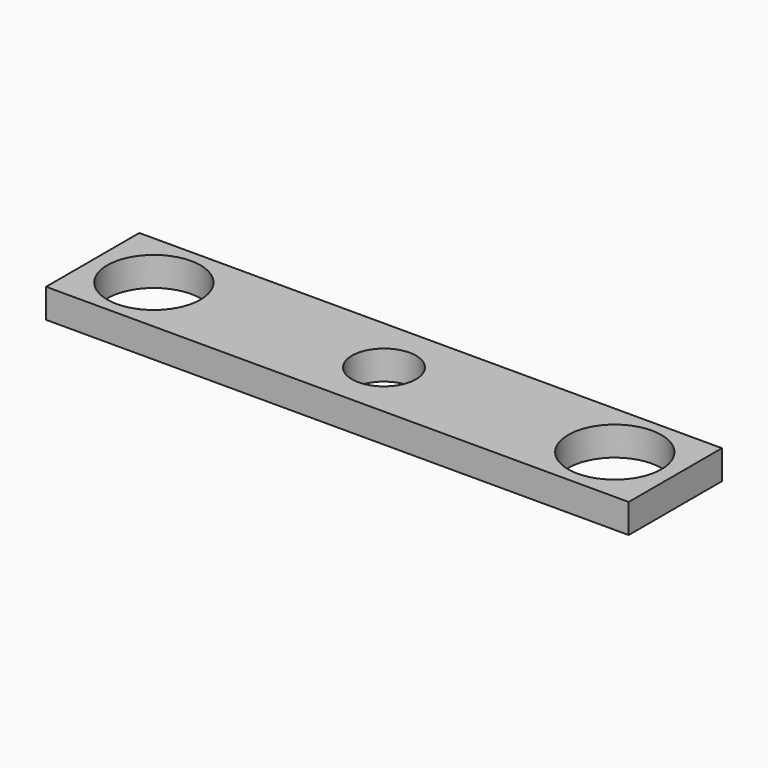
from build123d import *

# Parameters (mm, degrees)
F0_W     = 200
F0_H     = 40
F1_DEPTH = 10
F2_R     = 16
F2_R_2   = 11
F3_DEPTH = 10


with BuildPart() as f1:
    # F0 (on Top) → F1 (new body)
    with BuildSketch(Plane.XY):
        Rectangle(F0_W, F0_H)
    extrude(amount=F1_DEPTH)

    # F2 (on face) → F3 (cut)
    with BuildSketch(Plane.XY.offset(10)):
        with Locations((-79, 0)):
            Circle(F2_R)
        with Locations((79, 0.279917)):
            Circle(F2_R)
        Circle(F2_R_2)
    extrude(amount=-F3_DEPTH, mode=Mode.SUBTRACT)


solid = f1.part
